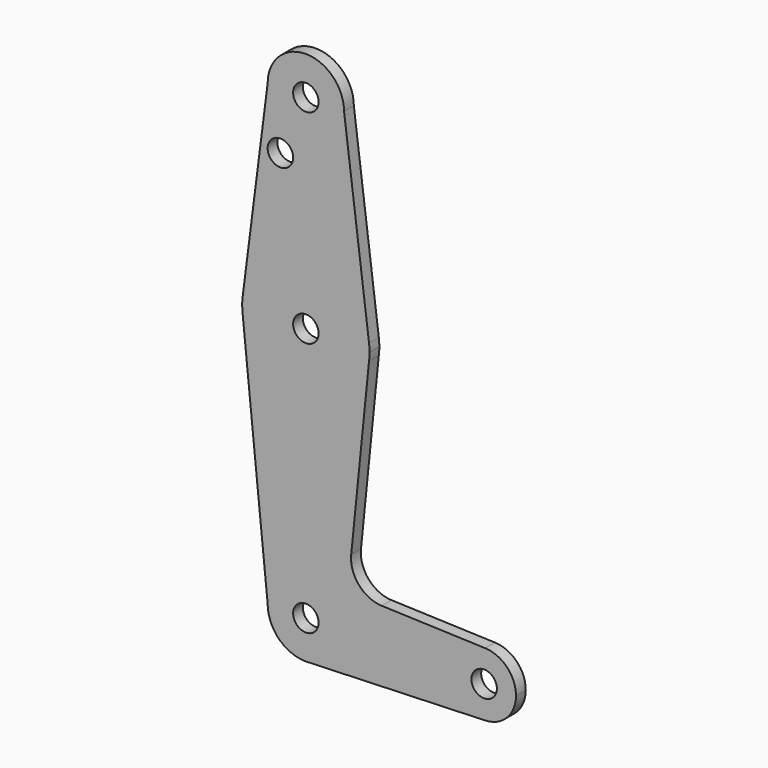
from build123d import *

# Parameters (mm, degrees)
F0_R     = 3.175
F1_DEPTH = 3.048
F2_DEPTH = 3.048


with BuildPart() as f1:
    # F0 (on Front) → F1 (new body)
    with BuildSketch(Plane.XZ):
        with BuildLine():
            ThreePointArc((0.677344, -9.500886), (6.970557, -6.491299), (9.525, 0))
            ThreePointArc((9.525, 0), (0, 9.525), (-9.525, 0))
            ThreePointArc((-9.525, 0), (-6.735192, -6.735192), (0, -9.525))
            Line((0, -9.525), (0.677344, -9.500886))
        make_face()
        Circle(F0_R, mode=Mode.SUBTRACT)
        with BuildLine():
            ThreePointArc((-9.525, 0), (0, 9.525), (9.525, 0))
            ThreePointArc((9.525, 0), (6.970557, -6.491299), (0.677344, -9.500886))
            Line((0.677344, -9.500886), (44.732405, -7.932475))
            ThreePointArc((44.732405, -7.932475), (36.5125, 0), (44.732405, 7.932475))
            Line((44.732405, 7.932475), (18.932576, 8.850978))
            ThreePointArc((18.932576, 8.850978), (13.223672, 11.570776), (11.305627, 17.596552))
            Line((11.305627, 17.596552), (15.747457, 61.491711))
            ThreePointArc((15.747457, 61.491711), (0.042186, 47.625056), (-15.736561, 61.408044))
            Line((-15.736561, 61.408044), (-9.525, 0))
        make_face()
        with BuildLine():
            ThreePointArc((0, -9.525), (0.338886, -9.51897), (0.677344, -9.500886))
            Line((0.677344, -9.500886), (0, -9.525))
        make_face()
        with BuildLine():
            ThreePointArc((-15.747457, 65.508289), (-15.874944, 63.457814), (-15.736561, 61.408044))
            ThreePointArc((-15.736561, 61.408044), (0.042186, 47.625056), (15.747457, 61.491711))
            ThreePointArc((15.747457, 61.491711), (15.843082, 62.493832), (15.875, 63.5))
            ThreePointArc((15.875, 63.5), (15.843082, 64.506168), (15.747457, 65.508289))
            ThreePointArc((15.747457, 65.508289), (0, 79.375), (-15.747457, 65.508289))
        make_face()
        with Locations((0, 63.5)):
            Circle(F0_R, mode=Mode.SUBTRACT)
        with BuildLine():
            ThreePointArc((44.732405, 7.932475), (36.5125, 0), (44.732405, -7.932475))
            ThreePointArc((44.732405, -7.932475), (50.161633, -5.51191), (52.3875, 0))
            ThreePointArc((52.3875, 0), (50.161633, 5.51191), (44.732405, 7.932475))
        make_face()
        with Locations((44.45, 0)):
            Circle(F0_R, mode=Mode.SUBTRACT)
        with BuildLine():
            Line((-9.525, 114.3), (-15.747457, 65.508289))
            ThreePointArc((-15.747457, 65.508289), (0, 79.375), (15.747457, 65.508289))
            Line((15.747457, 65.508289), (9.525, 114.3))
            ThreePointArc((9.525, 114.3), (0, 104.775), (-9.525, 114.3))
        make_face()
        with Locations((-6.35, 100.0252)):
            Circle(F0_R, mode=Mode.SUBTRACT)
        with BuildLine():
            ThreePointArc((9.525, 114.3), (0, 123.825), (-9.525, 114.3))
            ThreePointArc((-9.525, 114.3), (0, 104.775), (9.525, 114.3))
        make_face()
        with Locations((0, 114.3)):
            Circle(F0_R, mode=Mode.SUBTRACT)
    extrude(amount=F1_DEPTH)

    # F0 (on Front) → F2 (join)
    with BuildSketch(Plane.XZ):
        with BuildLine():
            ThreePointArc((0.677344, -9.500886), (6.970557, -6.491299), (9.525, 0))
            ThreePointArc((9.525, 0), (0, 9.525), (-9.525, 0))
            ThreePointArc((-9.525, 0), (-6.735192, -6.735192), (0, -9.525))
            Line((0, -9.525), (0.677344, -9.500886))
        make_face()
        Circle(F0_R, mode=Mode.SUBTRACT)
        with BuildLine():
            ThreePointArc((-9.525, 0), (0, 9.525), (9.525, 0))
            ThreePointArc((9.525, 0), (6.970557, -6.491299), (0.677344, -9.500886))
            Line((0.677344, -9.500886), (44.732405, -7.932475))
            ThreePointArc((44.732405, -7.932475), (36.5125, 0), (44.732405, 7.932475))
            Line((44.732405, 7.932475), (18.932576, 8.850978))
            ThreePointArc((18.932576, 8.850978), (13.223672, 11.570776), (11.305627, 17.596552))
            Line((11.305627, 17.596552), (15.747457, 61.491711))
            ThreePointArc((15.747457, 61.491711), (0.042186, 47.625056), (-15.736561, 61.408044))
            Line((-15.736561, 61.408044), (-9.525, 0))
        make_face()
        with BuildLine():
            ThreePointArc((0, -9.525), (0.338886, -9.51897), (0.677344, -9.500886))
            Line((0.677344, -9.500886), (0, -9.525))
        make_face()
        with BuildLine():
            ThreePointArc((-15.747457, 65.508289), (-15.874944, 63.457814), (-15.736561, 61.408044))
            ThreePointArc((-15.736561, 61.408044), (0.042186, 47.625056), (15.747457, 61.491711))
            ThreePointArc((15.747457, 61.491711), (15.843082, 62.493832), (15.875, 63.5))
            ThreePointArc((15.875, 63.5), (15.843082, 64.506168), (15.747457, 65.508289))
            ThreePointArc((15.747457, 65.508289), (0, 79.375), (-15.747457, 65.508289))
        make_face()
        with Locations((0, 63.5)):
            Circle(F0_R, mode=Mode.SUBTRACT)
        with BuildLine():
            ThreePointArc((44.732405, 7.932475), (36.5125, 0), (44.732405, -7.932475))
            ThreePointArc((44.732405, -7.932475), (50.161633, -5.51191), (52.3875, 0))
            ThreePointArc((52.3875, 0), (50.161633, 5.51191), (44.732405, 7.932475))
        make_face()
        with Locations((44.45, 0)):
            Circle(F0_R, mode=Mode.SUBTRACT)
        with BuildLine():
            Line((-9.525, 114.3), (-15.747457, 65.508289))
            ThreePointArc((-15.747457, 65.508289), (0, 79.375), (15.747457, 65.508289))
            Line((15.747457, 65.508289), (9.525, 114.3))
            ThreePointArc((9.525, 114.3), (0, 104.775), (-9.525, 114.3))
        make_face()
        with Locations((-6.35, 100.0252)):
            Circle(F0_R, mode=Mode.SUBTRACT)
        with BuildLine():
            ThreePointArc((9.525, 114.3), (0, 123.825), (-9.525, 114.3))
            ThreePointArc((-9.525, 114.3), (0, 104.775), (9.525, 114.3))
        make_face()
        with Locations((0, 114.3)):
            Circle(F0_R, mode=Mode.SUBTRACT)
    extrude(amount=F2_DEPTH)


solid = f1.part
